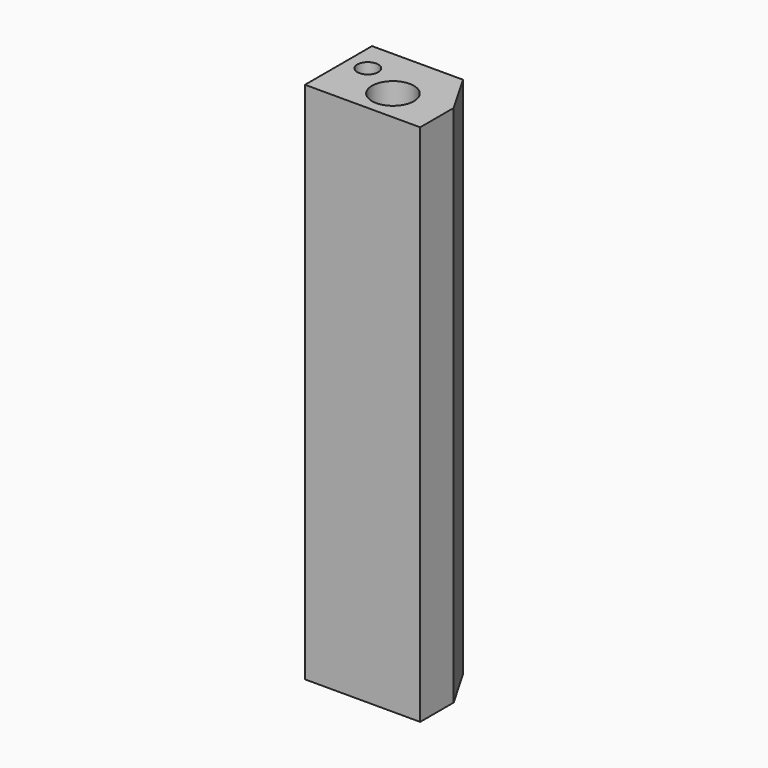
from build123d import *

# Parameters (mm, degrees)
F0_R     = 1
F0_R_2   = 0.5
F1_DEPTH = 25


with BuildPart() as f1:
    # F0 (on Top) → F1 (new body)
    with BuildSketch(Plane.XY):
        Polygon((-55.270979, 44.022566), (-55.270979, 46.022566), (-56.425679, 48.022566), (-60.770979, 48.022566), (-60.770979, 46.522566), (-60.770979, 44.022566), align=None)
        with Locations((-57.770979, 45.522566)):
            Circle(F0_R, mode=Mode.SUBTRACT)
        with Locations((-59.770979, 46.522566)):
            Circle(F0_R_2, mode=Mode.SUBTRACT)
    extrude(amount=F1_DEPTH)


solid = f1.part
